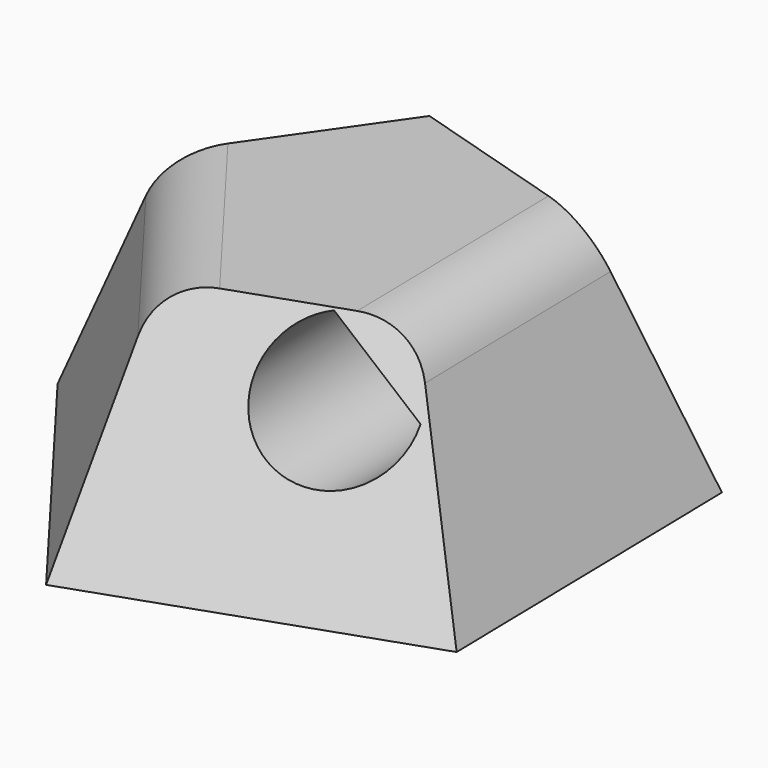
from build123d import *

# Parameters (mm, degrees)
F1_DEPTH = 7
F1_TAPER = 20
F2_R     = 2
F6_DEPTH = 5.3744027906


with BuildPart() as f1:
    # F0 (on Top) → F1 (new body)
    with BuildSketch(Plane.XY):
        Polygon((-2.466497474, -8.1410730242), (6.9804309133, -4.861508412), (6.7806410345, 5.136495589), (-2.7897642884, 8.0360372691), (-8.5048101854, -0.1699514219), align=None)
    extrude(amount=F1_DEPTH, taper=F1_TAPER)

    # F2
    f2_edges = [f1.edges().sort_by_distance(p)[0] for p in [
        (4.333253, 0.086591, 7),
        (-3.454778, -2.617076, 7),
    ]]
    fillet(f2_edges, radius=F2_R)

    # F5 (on face) → F6 (cut, through all)
    with BuildSketch(Plane(origin=(0, 0, 0), x_dir=(0.9998004001, 0.0199789879, 0), z_dir=(0.0199789879, -0.9998004001, 0))):
        with BuildLine():
            Line((4.9218312378, 4.7824094277), (2.4123963387, 6.9308649574))
            ThreePointArc((2.4123963387, 6.9308649574), (1.6329889121, 3.4807425637), (4.9218312378, 4.7824094277))
        make_face()
    extrude(amount=F6_DEPTH, mode=Mode.SUBTRACT)


solid = f1.part
